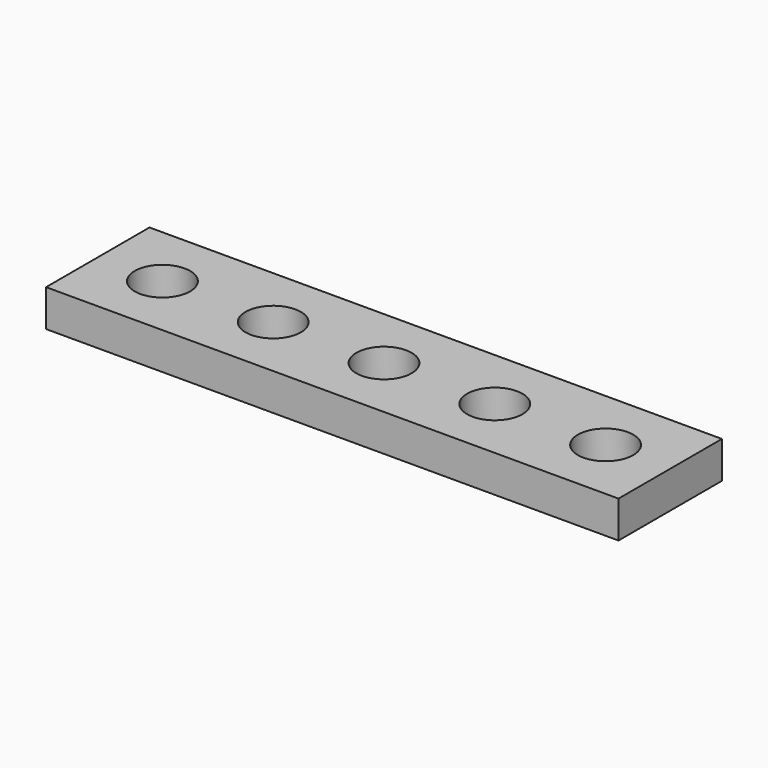
from build123d import *

# Parameters (mm, degrees)
CYLINDER_R     = 1.5
CYLINDER_DEPTH = 3
ARRAY_X_COUNT  = 5
ARRAY_X_PITCH  = 6
BOX_W          = 31
BOX_H          = 7
BOX_DEPTH      = 2


with BuildPart() as array:
    # Cylinder → Cylinder (new body)
    with BuildSketch(Plane(origin=(3.5, 3.5, 0), x_dir=(1, 0, 0), z_dir=(0, 0, 1))):
        Circle(CYLINDER_R)
    extrude(amount=CYLINDER_DEPTH)

    # Array X: Array ×5


with BuildPart() as array_1:
    add(array.part)
    with Locations(*[(i * ARRAY_X_PITCH, 0, 0) for i in range(1, ARRAY_X_COUNT)]):
        add(array.part)


with BuildPart() as cut:
    # Box → Box (new body)
    with BuildSketch(Plane.XY):
        with Locations((15.5, 3.5)):
            Rectangle(BOX_W, BOX_H)
    extrude(amount=BOX_DEPTH)

    # Cut: cut Array
    add(array_1.part, mode=Mode.SUBTRACT)


solid = cut.part
